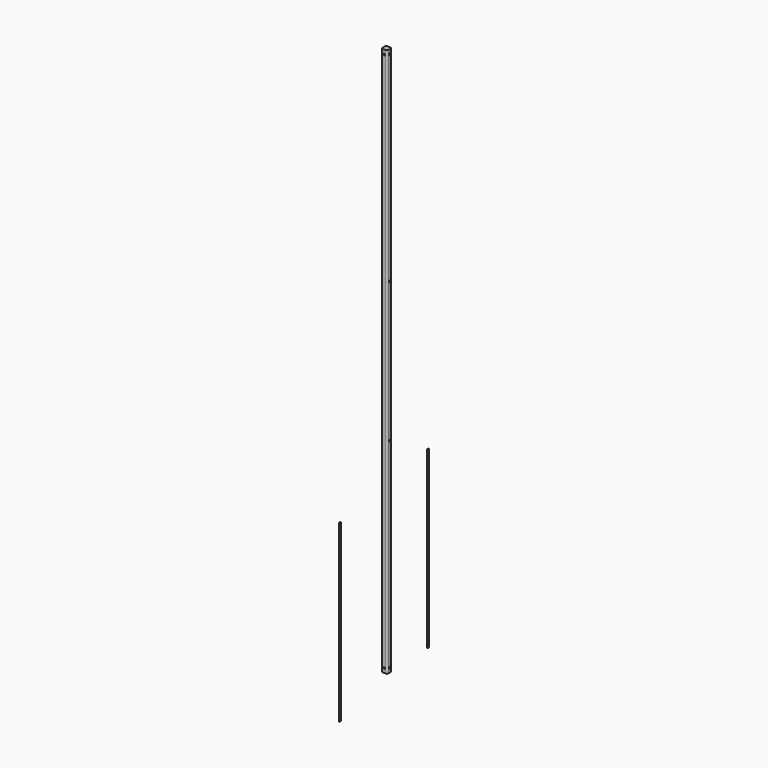
from build123d import *

# Parameters (mm, degrees)
F1_DEPTH  = 2387.6
F2_W      = 8.46582
F2_H      = 762
F3_DEPTH  = 1.27
F4_W      = 8.46582
F4_H      = 762
F5_DEPTH  = 1.27
F7_DEPTH  = 25.4
F8_DEPTH  = 25.4
F10_DEPTH = 25.4
F11_R     = 3.81
F12_DEPTH = 25.4


with BuildPart() as f1:
    # F0 (on Top) → F1 (new body)
    with BuildSketch(Plane.XY):
        with BuildLine():
            ThreePointArc((12.7, 6.35), (10.840128, 10.840128), (6.35, 12.7))
            Line((6.35, 12.7), (-6.35, 12.7))
            ThreePointArc((-6.35, 12.7), (-10.840128, 10.840128), (-12.7, 6.35))
            Line((-12.7, 6.35), (-12.7, -6.35))
            ThreePointArc((-12.7, -6.35), (-10.840128, -10.840128), (-6.35, -12.7))
            Line((-6.35, -12.7), (6.35, -12.7))
            ThreePointArc((6.35, -12.7), (10.840128, -10.840128), (12.7, -6.35))
            Line((12.7, -6.35), (12.7, 6.35))
        make_face()
    extrude(amount=F1_DEPTH)

    # F6 (on face) → F7 (cut)
    with BuildSketch(Plane.XZ.offset(12.7)):
        with BuildLine():
            ThreePointArc((3.81, 2368.55), (2.694077, 2371.244077), (0, 2372.36))
            ThreePointArc((0, 2372.36), (-2.694077, 2365.855923), (3.81, 2368.55))
        make_face()
    extrude(amount=-F7_DEPTH, mode=Mode.SUBTRACT)

    # F6 (on face) → F8 (cut)
    with BuildSketch(Plane.XZ.offset(12.7)):
        with BuildLine():
            ThreePointArc((0, 2372.36), (-2.694077, 2365.855923), (3.81, 2368.55))
            ThreePointArc((3.81, 2368.55), (2.694077, 2371.244077), (0, 2372.36))
        make_face()
        with BuildLine():
            ThreePointArc((0, 15.24), (2.694077, 16.355923), (3.81, 19.05))
            ThreePointArc((3.81, 19.05), (-2.694077, 21.744077), (0, 15.24))
        make_face()
    extrude(amount=-F8_DEPTH, mode=Mode.SUBTRACT)

    # F9 (on face) → F10 (cut)
    with BuildSketch(Plane.YZ.offset(12.7)):
        with BuildLine():
            ThreePointArc((3.81, 2368.55), (2.694077, 2371.244077), (0, 2372.36))
            ThreePointArc((0, 2372.36), (-2.694077, 2365.855923), (3.81, 2368.55))
        make_face()
        with BuildLine():
            ThreePointArc((3.81, 19.05), (-2.694077, 21.744077), (0, 15.24))
            ThreePointArc((0, 15.24), (2.694077, 16.355923), (3.81, 19.05))
        make_face()
    extrude(amount=-F10_DEPTH, mode=Mode.SUBTRACT)

    # F11 (on face) → F12 (cut)
    with BuildSketch(Plane.YZ.offset(12.7)):
        with Locations((0, 889)):
            Circle(F11_R)
        with Locations((0, 1498.6)):
            Circle(F11_R)
    extrude(amount=-F12_DEPTH, mode=Mode.SUBTRACT)


with BuildPart() as f3:
    # F2 (on Right) → F3 (new body)
    with BuildSketch(Plane.YZ):
        with Locations((-254.764381, 294.385428)):
            Rectangle(F2_W, F2_H)
    extrude(amount=F3_DEPTH)


with BuildPart() as f5:
    # F4 (on Right) → F5 (new body)
    with BuildSketch(Plane.YZ):
        with Locations((225.521233, 381)):
            Rectangle(F4_W, F4_H)
    extrude(amount=F5_DEPTH)


solid = Compound([f1.part, f3.part, f5.part])
